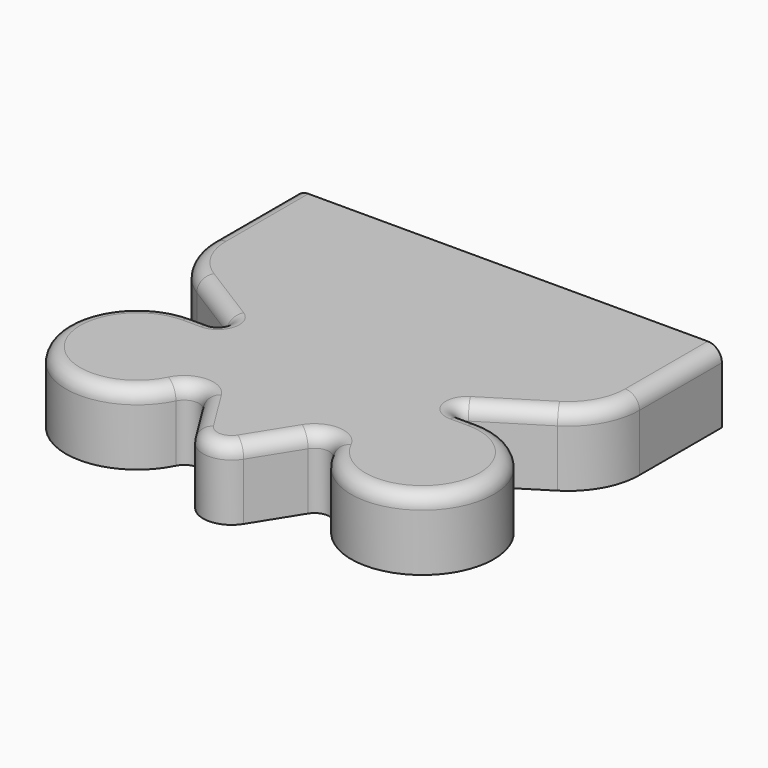
from build123d import *

# Parameters (mm, degrees)
F1_DEPTH = 5
F2_R     = 1


with BuildPart() as f1:
    # F0 (on Top) → F1 (new body)
    with BuildSketch(Plane.XY):
        with BuildLine():
            ThreePointArc((-11.324876, -22.119801), (-10.3773, -21.625245), (-9.483998, -22.212185))
            ThreePointArc((-9.483998, -22.212185), (-0.753771, -22.639988), (-5, -15))
            Line((-5, -15), (-6.256602, -15))
            ThreePointArc((-6.256602, -15), (-6.737226, -14.637841), (-6.521601, -14.076001))
            Line((-6.521601, -14.076001), (-2.350005, -11.468753))
            ThreePointArc((-2.350005, -11.468753), (-0.626788, -9.652604), (0, -7.228762))
            Line((0, -7.228762), (0, 0))
            Line((0, 0), (-30, 0))
            Line((-30, 0), (-30, -7.228762))
            ThreePointArc((-30, -7.228762), (-29.373212, -9.652604), (-27.649995, -11.468753))
            Line((-27.649995, -11.468753), (-23.478399, -14.076001))
            ThreePointArc((-23.478399, -14.076001), (-23.262774, -14.637841), (-23.743398, -15))
            Line((-23.743398, -15), (-25, -15))
            ThreePointArc((-25, -15), (-29.246229, -22.639988), (-20.516002, -22.212185))
            ThreePointArc((-20.516002, -22.212185), (-19.6227, -21.625245), (-18.675124, -22.119801))
            Line((-18.675124, -22.119801), (-16.695997, -25.286405))
            ThreePointArc((-16.695997, -25.286405), (-15, -26.226408), (-13.304003, -25.286405))
            Line((-13.304003, -25.286405), (-11.324876, -22.119801))
        make_face()
    extrude(amount=F1_DEPTH)

    # F2
    f2_edges = [f1.edges().sort_by_distance(p)[0] for p in [
        (-29.246229, -22.639988, 5),
    ]]
    fillet(f2_edges, radius=F2_R)


solid = f1.part
